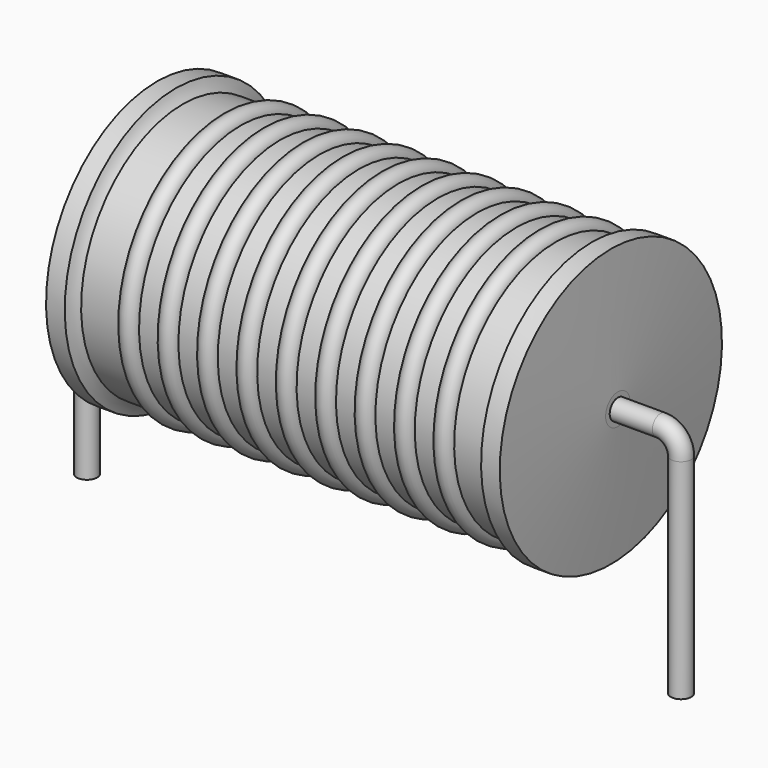
from build123d import *

# Parameters (mm, degrees)
SKETCH_R = 0.35


with BuildPart() as revolution:
    # Sketch002 → Revolution (revolve)
    with BuildSketch(Plane.XZ):
        with BuildLine():
            Line((2.4, 9.6), (3.04, 9.6))
            ThreePointArc((3.04, 9.6), (3.138512, 9.387107), (3.28, 9.2))
            Line((3.28, 9.2), (17.04, 9.2))
            ThreePointArc((17.04, 9.2), (17.181488, 9.387107), (17.28, 9.6))
            Line((17.28, 9.6), (17.92, 9.6))
            ThreePointArc((18.16, 5.375), (18.049811, 7.488057), (17.92, 9.6))
            Line((18.16, 4.85), (18.16, 5.375))
            Line((2.16, 4.85), (18.16, 4.85))
            Line((2.16, 4.85), (2.16, 5.375))
            ThreePointArc((2.4, 9.6), (2.270189, 7.488057), (2.16, 5.375))
        make_face()
    revolve(axis=Axis((2.16, 0, 4.85), (1, 0, 0)))


with BuildPart() as sweep_body:
    # Sweep: sweep along a path in Sketch001
    with BuildLine(Plane.XZ) as sweep_path:
        Line((0, -3), (0, 4.15))
        ThreePointArc((0, 4.15), (0.205023, 4.644972), (0.699992, 4.85))
        Line((0.699992, 4.85), (19.62, 4.85))
        ThreePointArc((19.62, 4.85), (20.114975, 4.644975), (20.32, 4.15))
        Line((20.32, 4.15), (20.32, -3))
    # Sketch → Sweep (sweep)
    with BuildSketch(Plane.XY.offset(-2)):
        Circle(SKETCH_R)
    sweep(path=sweep_path.line)


with BuildPart() as revolution001:
    # Sketch003 → Revolution001 (revolve)
    with BuildSketch(Plane.XZ):
        with BuildLine():
            ThreePointArc((5.267368, 9.136), (4.930526, 9.472842), (4.593684, 9.136))
            Line((3.92, 9.136), (4.593684, 9.136))
            Line((3.92, 9.136), (3.92, 8.186))
            Line((3.92, 8.186), (16.72, 8.186))
            Line((16.72, 8.186), (16.72, 9.136))
            Line((16.046316, 9.136), (16.72, 9.136))
            ThreePointArc((16.046316, 9.136), (15.709474, 9.472842), (15.372632, 9.136))
            Line((14.698947, 9.136), (15.372632, 9.136))
            ThreePointArc((14.698947, 9.136), (14.362105, 9.472842), (14.025263, 9.136))
            Line((13.351579, 9.136), (14.025263, 9.136))
            ThreePointArc((13.351579, 9.136), (13.014737, 9.472842), (12.677895, 9.136))
            Line((12.004211, 9.136), (12.677895, 9.136))
            ThreePointArc((12.004211, 9.136), (11.667368, 9.472842), (11.330526, 9.136))
            Line((10.656842, 9.136), (11.330526, 9.136))
            ThreePointArc((10.656842, 9.136), (10.32, 9.472842), (9.983158, 9.136))
            Line((9.309474, 9.136), (9.983158, 9.136))
            ThreePointArc((9.309474, 9.136), (8.972632, 9.472842), (8.635789, 9.136))
            Line((7.962105, 9.136), (8.635789, 9.136))
            ThreePointArc((7.962105, 9.136), (7.625263, 9.472842), (7.288421, 9.136))
            Line((6.614737, 9.136), (7.288421, 9.136))
            ThreePointArc((6.614737, 9.136), (6.277895, 9.472842), (5.941053, 9.136))
            Line((5.267368, 9.136), (5.941053, 9.136))
        make_face()
    revolve(axis=Axis((2.56, 0, 4.85), (1, 0, 0)))


solid = Compound([revolution.part, sweep_body.part, revolution001.part])
